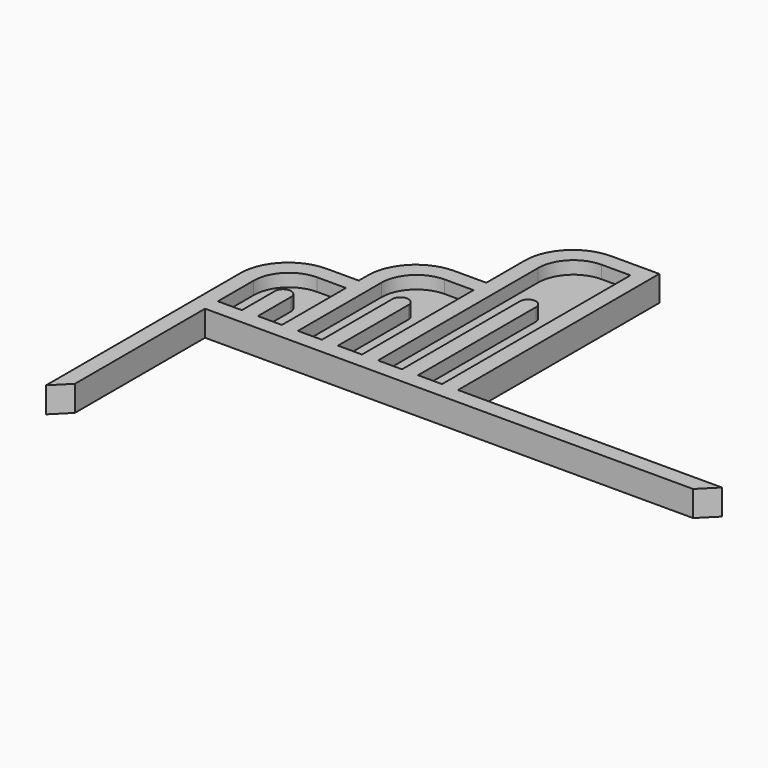
from build123d import *

# Parameters (mm, degrees)
F1_DEPTH = 2
F3_DEPTH = 2
F5_DEPTH = 2
F7_DEPTH = 2
F9_DEPTH = 2


with BuildPart() as f1:
    # F0 (on Top) → F1 (new body)
    with BuildSketch(Plane.XY):
        with BuildLine():
            Line((-2.5, -2.5), (0, 0))
            Line((0, 0), (0, 25.4))
            Line((0, 25.4), (76.2, 25.4))
            Line((76.2, 25.4), (78.7, 27.9))
            Line((78.7, 27.9), (37.5, 27.9))
            Line((37.5, 27.9), (37.5, 67.17051))
            Line((37.5, 67.17051), (35, 67.17051))
            Line((35, 67.17051), (30, 67.17051))
            ThreePointArc((30, 67.17051), (24.696699, 64.973811), (22.5, 59.67051))
            Line((22.5, 59.67051), (22.5, 52.17051))
            Line((22.5, 52.17051), (17.5, 52.17051))
            ThreePointArc((17.5, 52.17051), (12.196699, 49.973811), (10, 44.67051))
            Line((10, 44.67051), (10, 42.9))
            Line((10, 42.9), (5, 42.9))
            ThreePointArc((5, 42.9), (-0.303301, 40.703301), (-2.5, 35.4))
            Line((-2.5, 35.4), (-2.5, 27.9))
            Line((-2.5, 27.9), (-2.5, -2.5))
        make_face()
        with BuildLine():
            Line((5.5, 40.4), (10, 40.4))
            Line((10, 40.4), (10, 27.9))
            Line((10, 27.9), (0, 27.9))
            Line((0, 27.9), (0, 34.9))
            ThreePointArc((0, 34.9), (1.610913, 38.789087), (5.5, 40.4))
        make_face(mode=Mode.SUBTRACT)
        with BuildLine():
            Line((18, 49.67051), (22.5, 49.67051))
            Line((22.5, 49.67051), (22.5, 27.9))
            Line((22.5, 27.9), (12.5, 27.9))
            Line((12.5, 27.9), (12.5, 44.17051))
            ThreePointArc((12.5, 44.17051), (14.110913, 48.059597), (18, 49.67051))
        make_face(mode=Mode.SUBTRACT)
        with BuildLine():
            Line((30.5, 64.67051), (35, 64.67051))
            Line((35, 64.67051), (35, 27.9))
            Line((35, 27.9), (25, 27.9))
            Line((25, 27.9), (25, 59.17051))
            ThreePointArc((25, 59.17051), (26.610913, 63.059597), (30.5, 64.67051))
        make_face(mode=Mode.SUBTRACT)
    extrude(amount=F1_DEPTH)

    # F2 (on face) → F3 (join)
    with BuildSketch(Plane(origin=(0, 0, 0), x_dir=(1, 0, 0), z_dir=(0, 0, -1))):
        with BuildLine():
            Line((0, 0), (-2.5, 2.5))
            Line((-2.5, 2.5), (-2.5, -35.4))
            ThreePointArc((-2.5, -35.4), (-0.303301, -40.703301), (5, -42.9))
            Line((5, -42.9), (10, -42.9))
            Line((10, -42.9), (10, -44.67051))
            ThreePointArc((10, -44.67051), (12.196699, -49.973811), (17.5, -52.17051))
            Line((17.5, -52.17051), (22.5, -52.17051))
            Line((22.5, -52.17051), (22.5, -59.67051))
            ThreePointArc((22.5, -59.67051), (24.696699, -64.973811), (30, -67.17051))
            Line((30, -67.17051), (37.5, -67.17051))
            Line((37.5, -67.17051), (37.5, -27.9))
            Line((37.5, -27.9), (78.7, -27.9))
            Line((78.7, -27.9), (76.2, -25.4))
            Line((76.2, -25.4), (0, -25.4))
            Line((0, -25.4), (0, 0))
        make_face()
    extrude(amount=F3_DEPTH)

    # F4 (on face) → F5 (join)
    with BuildSketch(Plane.XY):
        with BuildLine():
            Line((3.75, 34.375425), (3.75, 27.9))
            Line((3.75, 27.9), (6.25, 27.9))
            Line((6.25, 27.9), (6.25, 34.375425))
            ThreePointArc((6.25, 34.375425), (5.883883, 35.259308), (5, 35.625425))
            ThreePointArc((5, 35.625425), (4.116117, 35.259308), (3.75, 34.375425))
        make_face()
    extrude(amount=F5_DEPTH)

    # F6 (on face) → F7 (join)
    with BuildSketch(Plane.XY):
        with BuildLine():
            Line((16.25, 41.65), (16.25, 27.9))
            Line((16.25, 27.9), (18.75, 27.9))
            Line((18.75, 27.9), (18.75, 41.65))
            ThreePointArc((18.75, 41.65), (18.383883, 42.533883), (17.5, 42.9))
            ThreePointArc((17.5, 42.9), (16.616117, 42.533883), (16.25, 41.65))
        make_face()
    extrude(amount=F7_DEPTH)

    # F8 (on face) → F9 (join)
    with BuildSketch(Plane.XY):
        with BuildLine():
            Line((28.75, 50.92051), (28.75, 27.9))
            Line((28.75, 27.9), (31.25, 27.9))
            Line((31.25, 27.9), (31.25, 50.92051))
            ThreePointArc((31.25, 50.92051), (30.883883, 51.804393), (30, 52.17051))
            ThreePointArc((30, 52.17051), (29.116117, 51.804393), (28.75, 50.92051))
        make_face()
    extrude(amount=F9_DEPTH)


solid = f1.part
